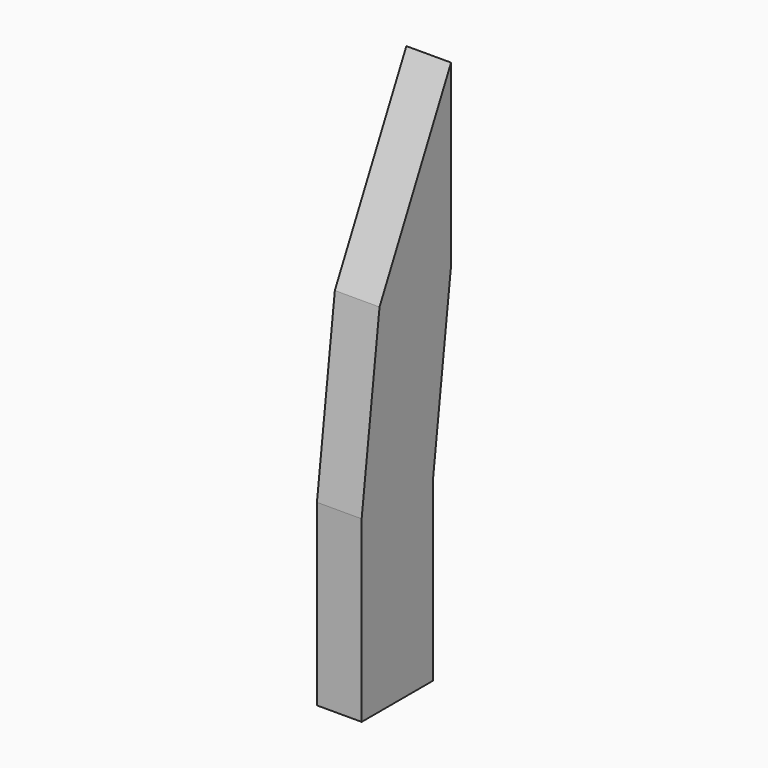
from build123d import *

# Parameters (mm, degrees)
F0_W     = 6.35
F0_H     = 12.7
F1_DEPTH = 1.5875


with BuildPart() as f1:
    # F0 (on Right) → F1 (new body, symmetric)
    with BuildSketch(Plane.YZ):
        Polygon((-1.5875, 18.950391), (-3.175, 6.35), (3.175, 6.35), (4.7625, 18.950391), (4.7625, 31.650391), align=None)
        Rectangle(F0_W, F0_H)
    extrude(amount=F1_DEPTH, both=True)


solid = f1.part
